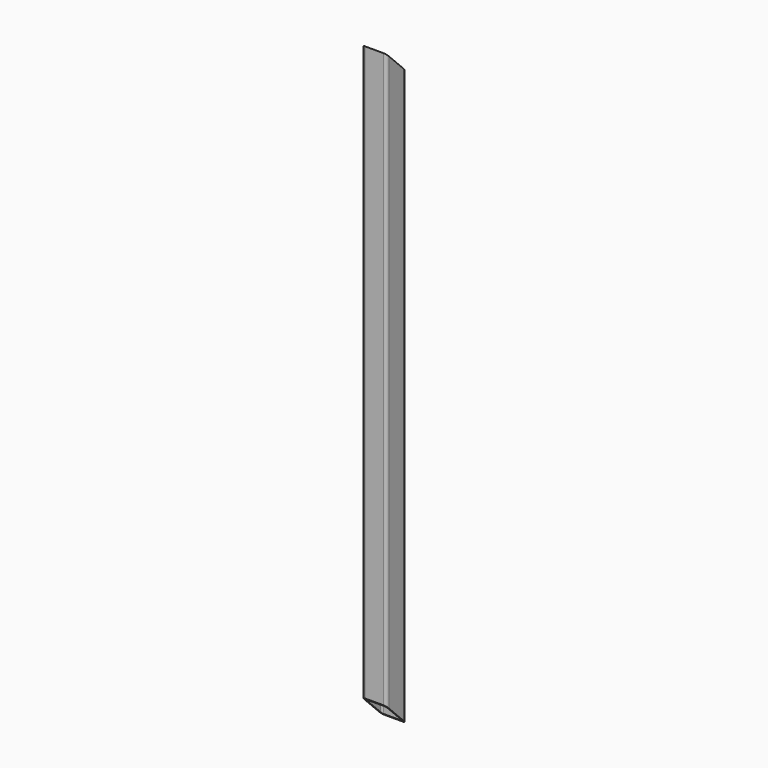
from build123d import *

# Parameters (mm, degrees)
F1_DEPTH      = 1872.45625
F3_DEPTH      = 38.101
F3_DEPTH_BACK = 38.101


with BuildPart() as f1:
    # F0 (on Top) → F1 (new body)
    with BuildSketch(Plane.XY):
        with BuildLine():
            ThreePointArc((-38.1, -28.575), (-35.3101920908, -35.3101920908), (-28.575, -38.1))
            Line((-28.575, -38.1), (28.575, -38.1))
            ThreePointArc((28.575, -38.1), (35.3101920908, -35.3101920908), (38.1, -28.575))
            Line((38.1, -28.575), (38.1, 28.575))
            ThreePointArc((38.1, 28.575), (35.3101920908, 35.3101920908), (28.575, 38.1))
            Line((28.575, 38.1), (-28.575, 38.1))
            ThreePointArc((-28.575, 38.1), (-35.3101920908, 35.3101920908), (-38.1, 28.575))
            Line((-38.1, 28.575), (-38.1, -28.575))
        make_face()
        with BuildLine():
            Line((28.575, -33.3375), (-28.575, -33.3375))
            ThreePointArc((-28.575, -33.3375), (-31.9425960454, -31.9425960454), (-33.3375, -28.575))
            Line((-33.3375, -28.575), (-33.3375, 28.575))
            ThreePointArc((-33.3375, 28.575), (-31.9425960454, 31.9425960454), (-28.575, 33.3375))
            Line((-28.575, 33.3375), (28.575, 33.3375))
            ThreePointArc((28.575, 33.3375), (31.9425960454, 31.9425960454), (33.3375, 28.575))
            Line((33.3375, 28.575), (33.3375, -28.575))
            ThreePointArc((33.3375, -28.575), (31.9425960454, -31.9425960454), (28.575, -33.3375))
        make_face(mode=Mode.SUBTRACT)
    extrude(amount=F1_DEPTH)

    # F2 (on Right) → F3 (cut, two sides)
    with BuildSketch(Plane.YZ) as f3_sk:
        Polygon((-38.1, 76.2), (-38.1, 0), (38.1, 0), align=None)
        Polygon((38.1, 1872.45625), (-38.1, 1872.45625), (38.1, 1796.25625), align=None)
    extrude(amount=-F3_DEPTH, mode=Mode.SUBTRACT)
    extrude(f3_sk.sketch, amount=F3_DEPTH_BACK, mode=Mode.SUBTRACT)


solid = f1.part
